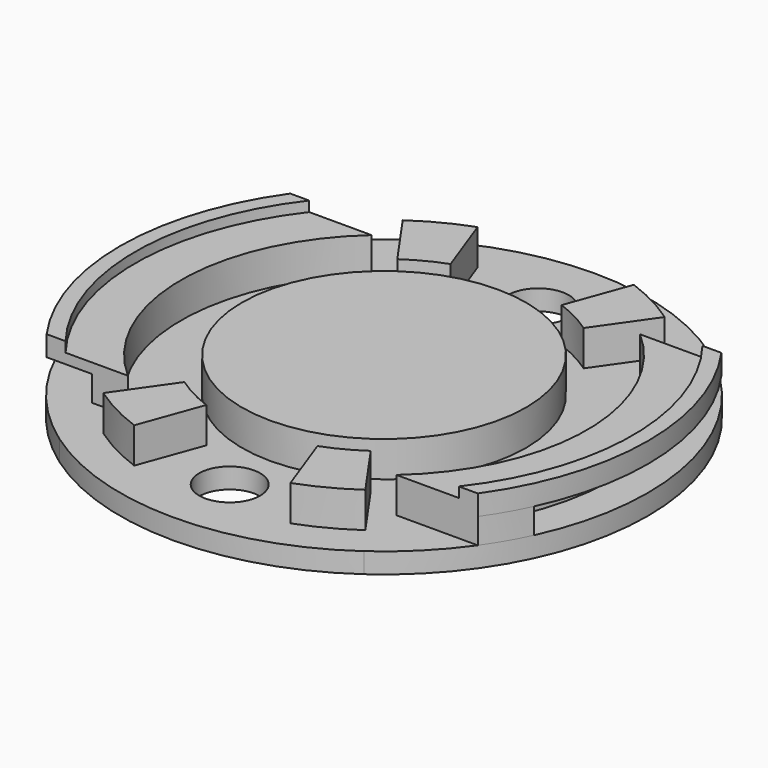
from build123d import *

# Parameters (mm, degrees)
F0_R      = 3
F0_R_2    = 13
F1_DEPTH  = 2
F2_R      = 14
F2_R_2    = 12.75
F3_DEPTH  = 2.5
F4_R      = 14
F5_DEPTH  = 2
F7_DEPTH  = 2.5
F9_DEPTH  = 2
F11_DEPTH = 4.5
F12_R     = 24.5
F13_DEPTH = 1


with BuildPart() as f1:
    # F0 (on Top) → F1 (new body)
    with BuildSketch(Plane.XY):
        with BuildLine():
            ThreePointArc((-15, 21.236761), (-26, 0), (-15, -21.236761))
            ThreePointArc((-15, -21.236761), (0, -26), (15, -21.236761))
            ThreePointArc((15, -21.236761), (26, 0), (15, 21.236761))
            ThreePointArc((15, 21.236761), (0, 26), (-15, 21.236761))
        make_face()
        with Locations((0, -19)):
            Circle(F0_R, mode=Mode.SUBTRACT)
        Circle(F0_R_2, mode=Mode.SUBTRACT)
        with Locations((0, 19)):
            Circle(F0_R, mode=Mode.SUBTRACT)
    extrude(amount=F1_DEPTH)

    # F2 (on face) → F3 (join)
    with BuildSketch(Plane.XY.offset(2)):
        Circle(F2_R)
        Circle(F2_R_2, mode=Mode.SUBTRACT)
    extrude(amount=F3_DEPTH)

    # F4 (on face) → F5 (join)
    with BuildSketch(Plane.XY.offset(4.5)):
        Circle(F4_R)
    extrude(amount=F5_DEPTH)

    # F6 (on face) → F7 (join)
    with BuildSketch(Plane.XY.offset(2)):
        with BuildLine():
            Line((23.558438, -11), (19.627786, -11))
            ThreePointArc((19.627786, -11), (22.365353, 2.457846), (16.77051, 15))
            Line((16.77051, 15), (13.228757, 15))
            ThreePointArc((13.228757, 15), (20, 0), (13.228757, -15))
            Line((13.228757, -15), (16.77051, -15))
            Line((16.77051, -15), (21.236761, -15))
            ThreePointArc((21.236761, -15), (22.486717, -13.051726), (23.558438, -11))
        make_face()
        with BuildLine():
            Line((-13.228757, 15), (-16.77051, 15))
            Line((-16.77051, 15), (-21.236761, 15))
            ThreePointArc((-21.236761, 15), (-22.486717, 13.051726), (-23.558438, 11))
            Line((-23.558438, 11), (-19.627786, 11))
            ThreePointArc((-19.627786, 11), (-22.365353, -2.457846), (-16.77051, -15))
            Line((-16.77051, -15), (-13.228757, -15))
            ThreePointArc((-13.228757, -15), (-20, 0), (-13.228757, 15))
        make_face()
    extrude(amount=F7_DEPTH)

    # F8 (on face) → F9 (join)
    with BuildSketch(Plane.XY.offset(4.5)):
        with BuildLine():
            Line((-13.228757, 15), (-21.236761, 15))
            ThreePointArc((-21.236761, 15), (-26, 0), (-21.236761, -15))
            Line((-21.236761, -15), (-13.228757, -15))
            ThreePointArc((-13.228757, -15), (-20, 0), (-13.228757, 15))
        make_face()
        with BuildLine():
            ThreePointArc((21.236761, -15), (26, 0), (21.236761, 15))
            Line((21.236761, 15), (13.228757, 15))
            ThreePointArc((13.228757, 15), (20, 0), (13.228757, -15))
            Line((13.228757, -15), (21.236761, -15))
        make_face()
    extrude(amount=F9_DEPTH)

    # F10 (on face) → F11 (join)
    with BuildSketch(Plane.XY.offset(2)):
        with BuildLine():
            ThreePointArc((-9.177223, 13.106433), (-7.387978, 14.192173), (-5.472322, 15.035082))
            Line((-5.472322, 15.035082), (-7.695453, 21.143084))
            ThreePointArc((-7.695453, 21.143084), (-10.389344, 19.957744), (-12.90547, 18.430921))
            Line((-12.90547, 18.430921), (-9.177223, 13.106433))
        make_face()
        with BuildLine():
            Line((7.695453, 21.143084), (5.472322, 15.035082))
            ThreePointArc((5.472322, 15.035082), (7.387978, 14.192173), (9.177223, 13.106433))
            Line((9.177223, 13.106433), (12.90547, 18.430921))
            ThreePointArc((12.90547, 18.430921), (10.389344, 19.957744), (7.695453, 21.143084))
        make_face()
        with BuildLine():
            Line((-7.695453, -21.143084), (-5.472322, -15.035082))
            ThreePointArc((-5.472322, -15.035082), (-7.387978, -14.192173), (-9.177223, -13.106433))
            Line((-9.177223, -13.106433), (-12.90547, -18.430921))
            ThreePointArc((-12.90547, -18.430921), (-10.389344, -19.957744), (-7.695453, -21.143084))
        make_face()
        with BuildLine():
            ThreePointArc((9.177223, -13.106433), (7.387978, -14.192173), (5.472322, -15.035082))
            Line((5.472322, -15.035082), (7.695453, -21.143084))
            ThreePointArc((7.695453, -21.143084), (10.389344, -19.957744), (12.90547, -18.430921))
            Line((12.90547, -18.430921), (9.177223, -13.106433))
        make_face()
    extrude(amount=F11_DEPTH)

    # F12 (on face) → F13 (cut)
    with BuildSketch(Plane.XY.offset(6.5)):
        Circle(F12_R)
    extrude(amount=-F13_DEPTH, mode=Mode.SUBTRACT)


solid = f1.part
